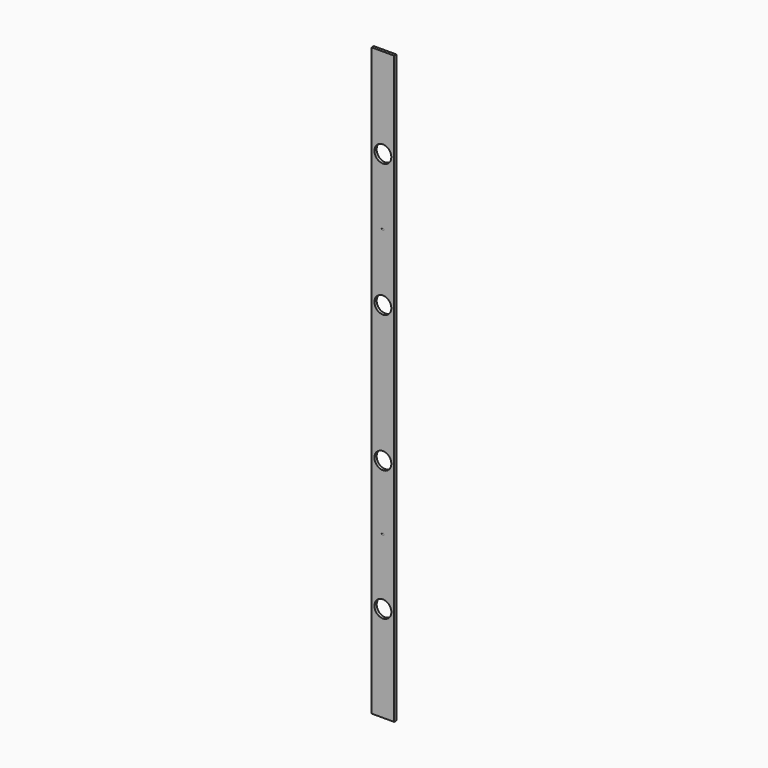
from build123d import *

# Parameters (mm, degrees)
F0_W      = 25.4
F0_H      = 660.4
F1_DEPTH  = 3.175
F2_R      = 9.525
F3_DEPTH  = 25.4
F4_R      = 9.525
F5_DEPTH  = 25.4
F6_R      = 9.525
F7_DEPTH  = 25.4
F8_R      = 9.525
F9_DEPTH  = 25.4
F11_R     = 1.287189
F12_DEPTH = 0.254
F13_R     = 1.283426
F14_DEPTH = 0.254


with BuildPart() as f1:
    # F0 (on Front) → F1 (new body)
    with BuildSketch(Plane.XZ):
        Rectangle(F0_W, F0_H)
    extrude(amount=F1_DEPTH)

    # F2 (on face) → F3 (cut)
    with BuildSketch(Plane.XZ.offset(3.175)):
        with Locations((0, 78.915866)):
            Circle(F2_R)
    extrude(amount=-F3_DEPTH, mode=Mode.SUBTRACT)

    # F4 (on face) → F5 (cut)
    with BuildSketch(Plane.XZ.offset(3.175)):
        with Locations((0, -75.349567)):
            Circle(F4_R)
    extrude(amount=-F5_DEPTH, mode=Mode.SUBTRACT)

    # F6 (on face) → F7 (cut)
    with BuildSketch(Plane.XZ.offset(3.175)):
        with Locations((0, -222.324208)):
            Circle(F6_R)
    extrude(amount=-F7_DEPTH, mode=Mode.SUBTRACT)

    # F8 (on face) → F9 (cut)
    with BuildSketch(Plane(origin=(0, 0, 0), x_dir=(-1, 0, 0), z_dir=(0, 1, 0))):
        with Locations((0, 228.710903)):
            Circle(F8_R)
    extrude(amount=-F9_DEPTH, mode=Mode.SUBTRACT)

    # F11 (on face) → F12 (cut)
    with BuildSketch(Plane.XZ.offset(3.175)):
        with Locations((0, 153.946459)):
            Circle(F11_R)
    extrude(amount=-F12_DEPTH, mode=Mode.SUBTRACT)

    # F13 (on face) → F14 (cut)
    with BuildSketch(Plane.XZ.offset(3.175)):
        with Locations((0, -148.353621)):
            Circle(F13_R)
    extrude(amount=-F14_DEPTH, mode=Mode.SUBTRACT)


solid = f1.part
